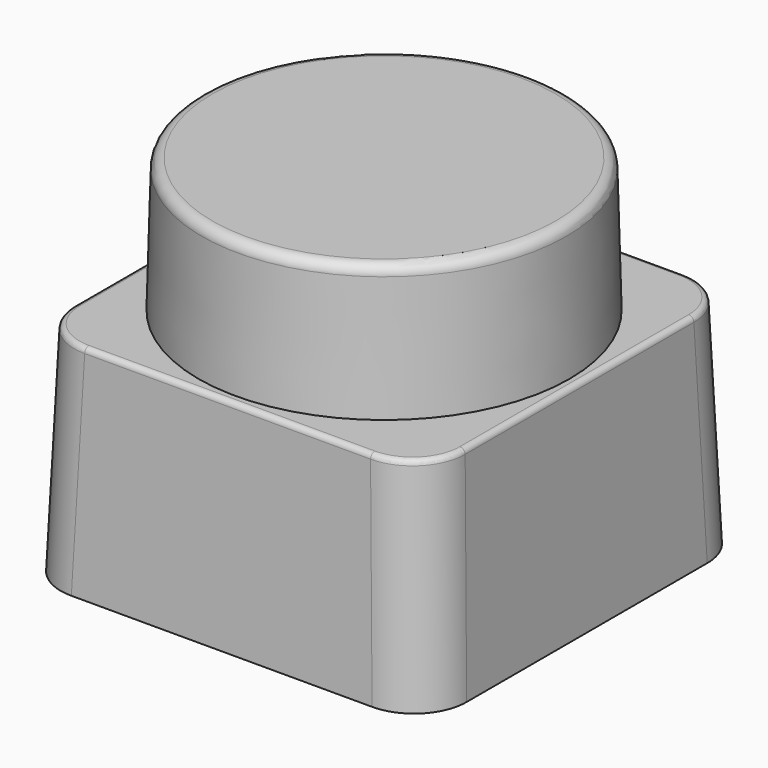
from build123d import *

# Parameters (mm, degrees)
SKETCH058_W  = 38.59
SKETCH058_H  = 38.59
PAD041_DEPTH = 20.7
PAD041_TAPER = 2
SKETCH059_R  = 17.645
PAD042_DEPTH = 12.8
PAD042_TAPER = 1.5
FILLET_R     = 1
FILLET003_R  = 5
FILLET004_R  = 0.5


with BuildPart() as part:
    # Sketch058 → Pad041 (new body)
    with BuildSketch(Plane.XY):
        Rectangle(SKETCH058_W, SKETCH058_H)
    extrude(amount=PAD041_DEPTH, taper=PAD041_TAPER)

    # Sketch059 (on Face6 of Pad041) → Pad042 (join)
    with BuildSketch(Plane.XY.offset(20.7)):
        Circle(SKETCH059_R)
    extrude(amount=PAD042_DEPTH, taper=PAD042_TAPER)

    # Fillet
    fillet_edges = [part.edges().sort_by_distance(p)[0] for p in [
        (-17.30982, 0, 33.5),
    ]]
    fillet(fillet_edges, radius=FILLET_R)

    # Fillet003
    fillet003_edges = [part.edges().sort_by_distance(p)[0] for p in [
        (18.93357, -18.93357, 10.35),
        (18.93357, 18.93357, 10.35),
        (-18.93357, 18.93357, 10.35),
        (-18.93357, -18.93357, 10.35),
    ]]
    fillet(fillet003_edges, radius=FILLET003_R)

    # Fillet004
    fillet004_edges = [part.edges().sort_by_distance(p)[0] for p in [
        (0, -18.57214, 20.7),
        (-17.108935, -17.108935, 20.7),
        (-18.57214, 0, 20.7),
        (18.57214, 0, 20.7),
        (17.108935, 17.108935, 20.7),
        (0, 18.57214, 20.7),
        (17.108935, -17.108935, 20.7),
        (-17.108935, 17.108935, 20.7),
    ]]
    fillet(fillet004_edges, radius=FILLET004_R)


with BuildPart() as part_1:
    # Body023 placement: moved
    add(part.part.moved(Location((0, 0, 11))))


solid = part_1.part
